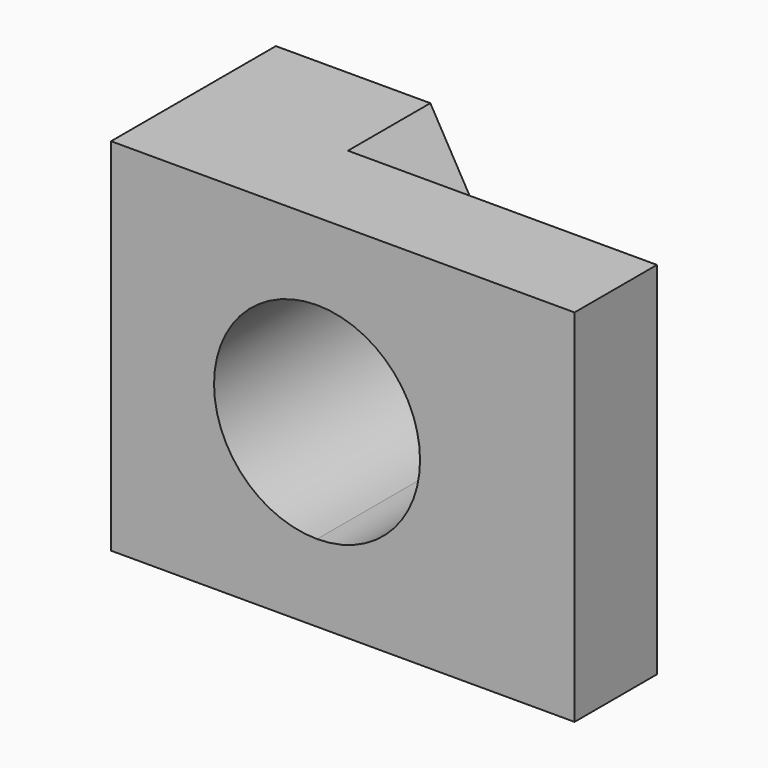
from build123d import *

# Parameters (mm, degrees)
F0_W     = 57.15
F0_H     = 44.45
F1_DEPTH = 25.4
F3_DEPTH = 12.7
F5_DEPTH = 25.401


with BuildPart() as f1:
    # F0 (on Front) → F1 (new body)
    with BuildSketch(Plane.XZ):
        with Locations((28.575, 22.225)):
            Rectangle(F0_W, F0_H)
    extrude(amount=F1_DEPTH)

    # F2 (on Front) → F3 (cut)
    with BuildSketch(Plane.XZ):
        Polygon((19.05, 44.45), (44.45, 0), (57.15, 0), (57.15, 44.45), align=None)
    extrude(amount=F3_DEPTH, mode=Mode.SUBTRACT)

    # F4 (on Front) → F5 (cut, through all)
    with BuildSketch(Plane.XZ):
        with BuildLine():
            ThreePointArc((38.1, 22.225), (34.380256, 31.205256), (25.4, 34.925))
            Line((25.4, 34.925), (25.4, 9.525))
            ThreePointArc((25.4, 9.525), (34.380256, 13.244744), (38.1, 22.225))
        make_face()
        with BuildLine():
            Line((25.4, 9.525), (25.4, 34.925))
            ThreePointArc((25.4, 34.925), (12.7, 22.225), (25.4, 9.525))
        make_face()
    extrude(amount=F5_DEPTH, mode=Mode.SUBTRACT)


solid = f1.part
